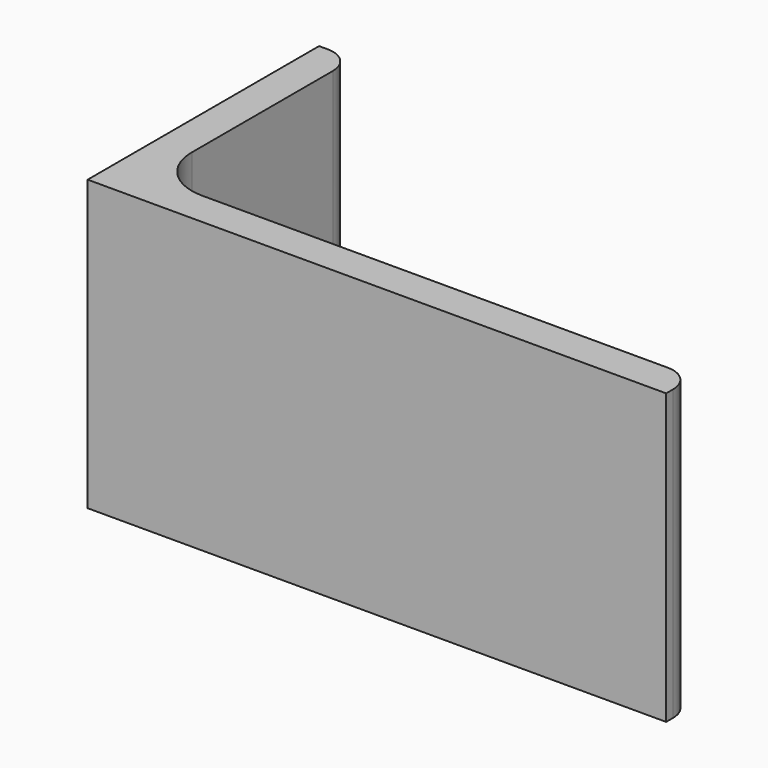
from build123d import *

# Parameters (mm, degrees)
EXTRUDE_DEPTH = 50


with BuildPart() as part:
    # Sketch → Extrude (new body)
    with BuildSketch(Plane.XY):
        with BuildLine():
            Line((0, 0), (100, 0))
            Line((100, 0), (100, 1.5))
            ThreePointArc((100, 1.5), (98.681981, 4.681981), (95.5, 6))
            Line((95.5, 6), (15, 6))
            ThreePointArc((6, 15), (8.636039, 8.636039), (15, 6))
            Line((6, 45.5), (6, 15))
            ThreePointArc((6, 45.5), (4.681981, 48.681981), (1.5, 50))
            Line((0, 50), (1.5, 50))
            Line((0, 0), (0, 50))
        make_face()
    extrude(amount=EXTRUDE_DEPTH)


solid = part.part
